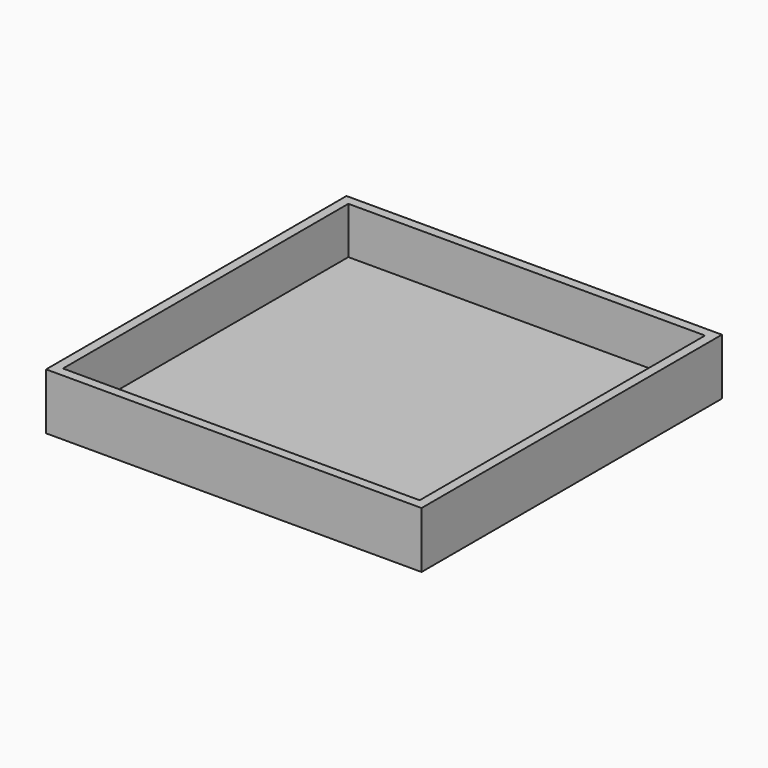
from build123d import *

# Parameters (mm, degrees)
F1_DEPTH = 7.62
F2_T     = -1.27
F3_R     = 1.27
F4_DEPTH = 25.4


with BuildPart() as f1:
    # F0 (on Top) → F1 (new body)
    with BuildSketch(Plane.XY):
        Polygon((0, 50.8), (0, 0), (5.08, 0), (50.8, 0), (50.8, 50.8), align=None)
    extrude(amount=F1_DEPTH)

    # F2
    f2_openings = [f1.faces().sort_by_distance(p)[0] for p in [
        (25.4, 25.4, 7.62),
    ]]
    offset(amount=F2_T, openings=f2_openings)

    # F3 (on face) → F4 (cut)
    with BuildSketch(Plane.XY.offset(1.27)):
        with Locations((3.81, 7.504861)):
            Circle(F3_R)
    extrude(amount=-F4_DEPTH, mode=Mode.SUBTRACT)


solid = f1.part
